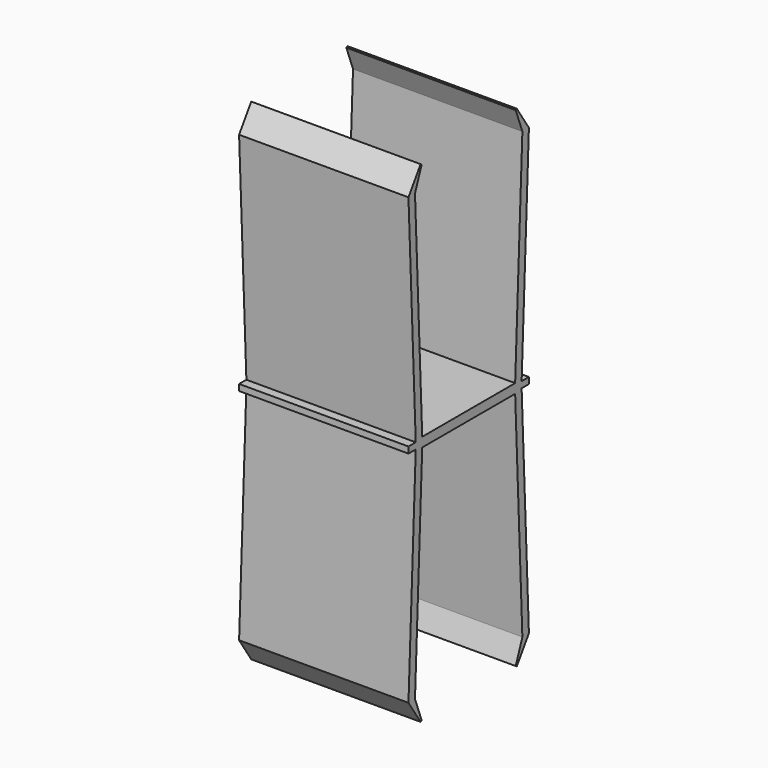
from build123d import *

# Parameters (mm, degrees)
F1_DEPTH = 54


with BuildPart() as f1:
    # F0 (on Right) → F1 (new body)
    with BuildSketch(Plane.YZ):
        Polygon((-24, 0), (0, 0), (0, 1.5), (-18.518498, 1.5), (-21.397766, 70.939903), (-18.741725, 78.002092), (-19.159078, 78.27744), (-24, 70.939903), (-21.1, 1), (-24, 1), align=None)
    extrude(amount=F1_DEPTH)

    # F2: F1 across plane


with BuildPart() as f1_1:
    add(f1.part)
    add(f1.part.mirror(Plane.XZ))

    # F3: F1 across plane


with BuildPart() as f1_2:
    add(f1_1.part)
    add(f1_1.part.mirror(Plane.XY))


solid = f1_2.part
